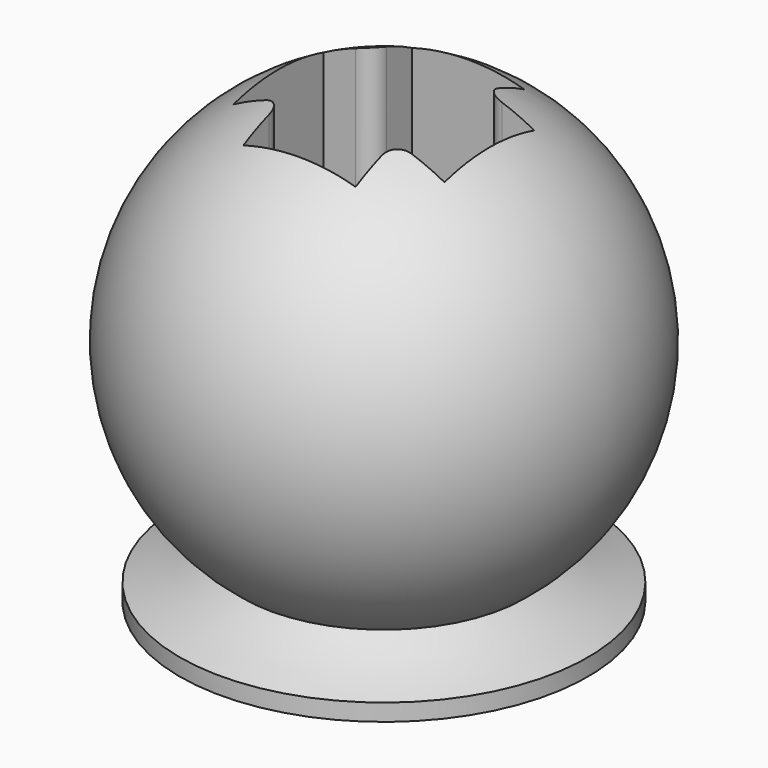
from build123d import *

# Parameters (mm, degrees)
F3_DEPTH = 10


with BuildPart() as f1:
    # F0 (on Front) → F1 (revolve)
    with BuildSketch(Plane.XZ):
        with BuildLine():
            Line((0, 0), (0, -13.5))
            ThreePointArc((0, -13.5), (6.75, -6.75), (0, 0))
        make_face()
    revolve(axis=Axis((0, 0, -6.75), (0, 0, -1)))

    # F2 (on Top) → F3 (cut)
    with BuildSketch(Plane.XY):
        with BuildLine():
            Line((-3.1, 1.65), (-3.1, 0))
            Line((-3.1, 0), (-3.1, -1.65))
            Line((-3.1, -1.65), (-2.15, -1.65))
            ThreePointArc((-2.15, -1.65), (-1.796447, -1.796447), (-1.65, -2.15))
            Line((-1.65, -2.15), (-1.65, -3.1))
            Line((-1.65, -3.1), (0, -3.1))
            Line((0, -3.1), (1.65, -3.1))
            Line((1.65, -3.1), (1.65, -2.15))
            ThreePointArc((1.65, -2.15), (1.796447, -1.796447), (2.15, -1.65))
            Line((2.15, -1.65), (3.1, -1.65))
            Line((3.1, -1.65), (3.1, 0))
            Line((3.1, 0), (3.1, 1.65))
            Line((3.1, 1.65), (2.15, 1.65))
            ThreePointArc((2.15, 1.65), (1.796447, 1.796447), (1.65, 2.15))
            Line((1.65, 2.15), (1.65, 3.1))
            Line((1.65, 3.1), (0, 3.1))
            Line((0, 3.1), (-1.65, 3.1))
            Line((-1.65, 3.1), (-1.65, 2.15))
            ThreePointArc((-1.65, 2.15), (-1.796447, 1.796447), (-2.15, 1.65))
            Line((-2.15, 1.65), (-3.1, 1.65))
        make_face()
    extrude(amount=-F3_DEPTH, mode=Mode.SUBTRACT)

    # F4 (on Front) → F5 (revolve)
    with BuildSketch(Plane.XZ):
        with BuildLine():
            Line((-6, -13), (-6, -13.5))
            Line((-6, -13.5), (0, -13.5))
            Line((0, -13.5), (0, -12.090374))
            Line((0, -12.090374), (-4.128305, -12.090374))
            ThreePointArc((-4.128305, -12.090374), (-5.037623, -12.599775), (-6, -13))
        make_face()
    revolve(axis=Axis((0, 0, -12.795187), (0, 0, 1)))


solid = f1.part
